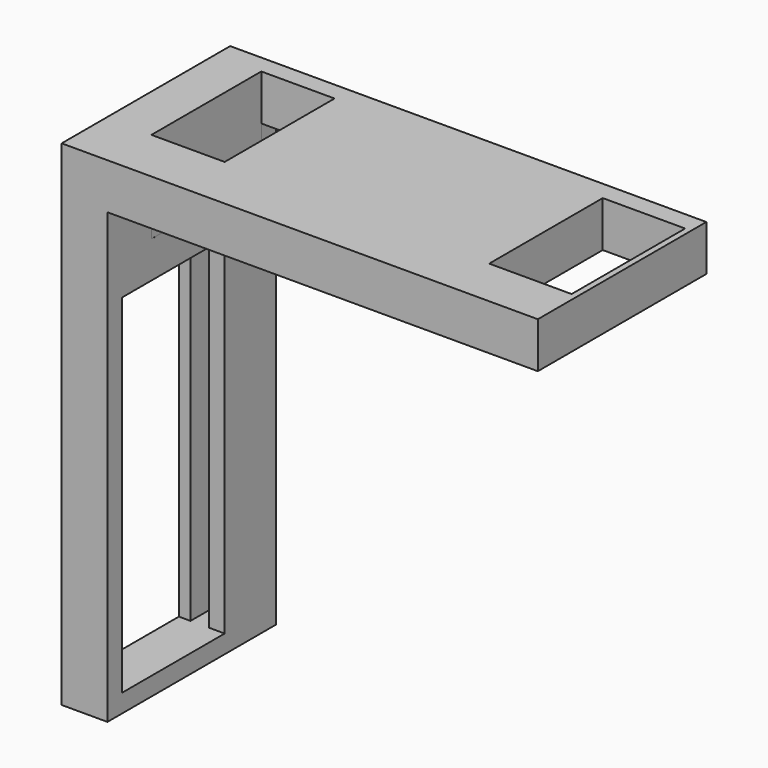
from build123d import *

# Parameters (mm, degrees)
SKETCH041_W                = 15.5
SKETCH041_H                = 9
EXTRUDE039_DEPTH           = 6
EXTRUDE039_PLACEMENT_ANGLE = 90
BOX075_W                   = 8
BOX075_H                   = 15
BOX075_DEPTH               = 15
BOX073_W                   = 2
BOX073_H                   = 14
BOX073_DEPTH               = 37
BOX072_W                   = 2
BOX072_H                   = 19
BOX072_DEPTH               = 40
BOX074_W                   = 8
BOX074_H                   = 14
BOX074_DEPTH               = 38
BOX071_W                   = 5
BOX071_H                   = 23
BOX071_DEPTH               = 49
BOX070_W                   = 52
BOX070_H                   = 23
BOX070_DEPTH               = 5


with BuildPart() as tab002:
    # Sketch041 → Extrude039 (new body)
    with BuildSketch(Plane.XY):
        with Locations((3.19859, 5.867378)):
            Rectangle(SKETCH041_W, SKETCH041_H)
    extrude(amount=EXTRUDE039_DEPTH)


with BuildPart() as tab002_1:
    # Extrude039 placement: moved
    add(tab002.part.moved(Location((142.792, 58.9812, 48.0053))).rotate(Axis((142.792, 58.9812, 48.0053), (0, 0, 1)), EXTRUDE039_PLACEMENT_ANGLE))


with BuildPart() as cables_cut_encoder_piece001:
    # Box075 → Box075 (new body)
    with BuildSketch(Plane(origin=(170.769, 55, 44.0053), x_dir=(1, 0, 0), z_dir=(0, 0, 1))):
        with Locations((4, 7.5)):
            Rectangle(BOX075_W, BOX075_H)
    extrude(amount=BOX075_DEPTH)


with BuildPart() as cube022:
    # Box073 → Box073 (new body)
    with BuildSketch(Plane(origin=(201.5, 38, 3), x_dir=(1, 0, 0), z_dir=(0, 0, 1))):
        with Locations((1, 7)):
            Rectangle(BOX073_W, BOX073_H)
    extrude(amount=BOX073_DEPTH)


with BuildPart() as cube021:
    # Box072 → Box072 (new body)
    with BuildSketch(Plane(origin=(203.5, 37, 2), x_dir=(1, 0, 0), z_dir=(0, 0, 1))):
        with Locations((1, 9.5)):
            Rectangle(BOX072_W, BOX072_H)
    extrude(amount=BOX072_DEPTH)


with BuildPart() as encoder_support_slider001:
    # Box074 → Box074 (new body)
    with BuildSketch(Plane(origin=(200.5, 38, 2), x_dir=(1, 0, 0), z_dir=(0, 0, 1))):
        with Locations((4, 7)):
            Rectangle(BOX074_W, BOX074_H)
    extrude(amount=BOX074_DEPTH)

    # Fusion133: union Cube022, Cube021
    add(cube022.part)
    add(cube021.part)


with BuildPart() as encoder_support_slider001_1:
    # Fusion133 placement: moved
    add(encoder_support_slider001.part.moved(Location((0, -2, 0))))


with BuildPart() as cube020:
    # Box071 → Box071 (new body)
    with BuildSketch(Plane(origin=(201.768682, 38, 0.005261), x_dir=(1, 0, 0), z_dir=(0, 0, 1))):
        with Locations((2.5, 11.5)):
            Rectangle(BOX071_W, BOX071_H)
    extrude(amount=BOX071_DEPTH)


with BuildPart() as encoder_support_with_tab001:
    # Box070 → Box070 (new body)
    with BuildSketch(Plane(origin=(154.768682, 38, 49.005261), x_dir=(1, 0, 0), z_dir=(0, 0, 1))):
        with Locations((26, 11.5)):
            Rectangle(BOX070_W, BOX070_H)
    extrude(amount=BOX070_DEPTH)

    # Fusion132: union Cube020
    add(cube020.part)


with BuildPart() as encoder_support_with_tab001_1:
    # Fusion132 placement: moved
    add(encoder_support_with_tab001.part.moved(Location((0, -4, 0))))

    # Cut078: cut Encoder support slider001
    add(encoder_support_slider001_1.part, mode=Mode.SUBTRACT)


with BuildPart() as encoder_support_with_tab001_2:
    # Cut078 placement: moved
    add(encoder_support_with_tab001_1.part.moved(Location((-23, 15, 0))))

    # Cut079: cut Cables cut encoder piece001
    add(cables_cut_encoder_piece001.part, mode=Mode.SUBTRACT)

    # Cut080: cut Tab002
    add(tab002_1.part, mode=Mode.SUBTRACT)


with BuildPart() as part_mirroring013:
    # Part__Mirroring013: instance of Encoder support with tab001
    add(encoder_support_with_tab001_2.part.mirror(Plane(origin=(5, 0, 0), x_dir=(0, -1, 0), z_dir=(1, 0, 0))))


solid = part_mirroring013.part
